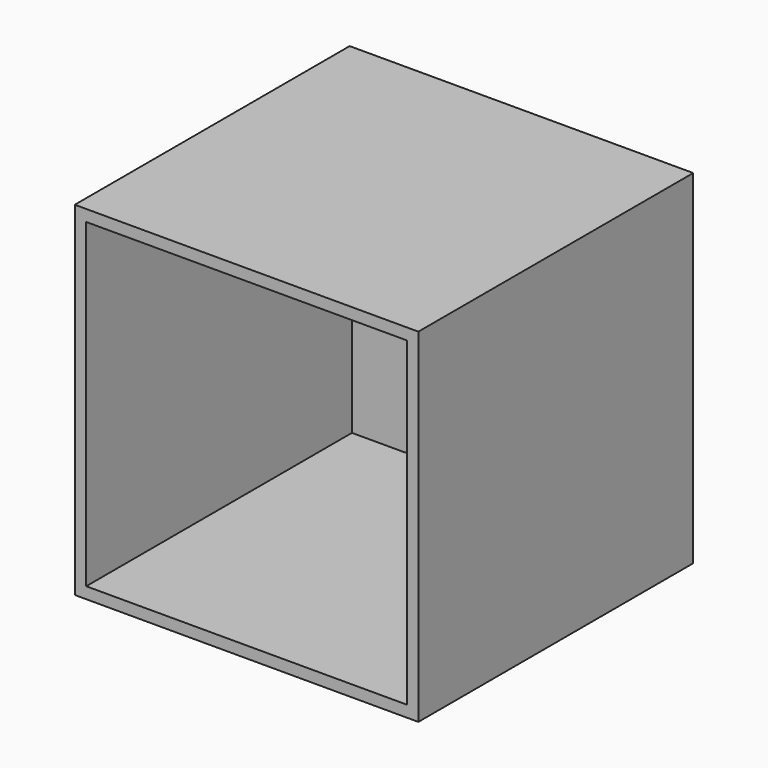
from build123d import *

# Parameters (mm, degrees)
F0_W     = 76.2
F0_H     = 76.2
F1_DEPTH = 76.2
F2_T     = -2.54
F4_D     = 6.35
F6_D     = 6.35


with BuildPart() as f1:
    # F0 (on Front) → F1 (new body)
    with BuildSketch(Plane.XZ):
        with Locations((38.1, -38.1)):
            Rectangle(F0_W, F0_H)
    extrude(amount=F1_DEPTH)

    # F2
    f2_openings = [f1.faces().sort_by_distance(p)[0] for p in [
        (38.1, -76.2, -38.1),
    ]]
    offset(amount=F2_T, openings=f2_openings)

    # F4 (through all)
    with Locations(Plane(origin=(0, 0, 0), x_dir=(-1, 0, 0), z_dir=(0, 1, 0))):
        with Locations((-69.99965, -35.934076)):
            Hole(F4_D / 2)

    # F6 (through all)
    with Locations(Plane.XZ.offset(2.54)):
        with Locations((5.889626, -35.706378)):
            Hole(F6_D / 2)


solid = f1.part
